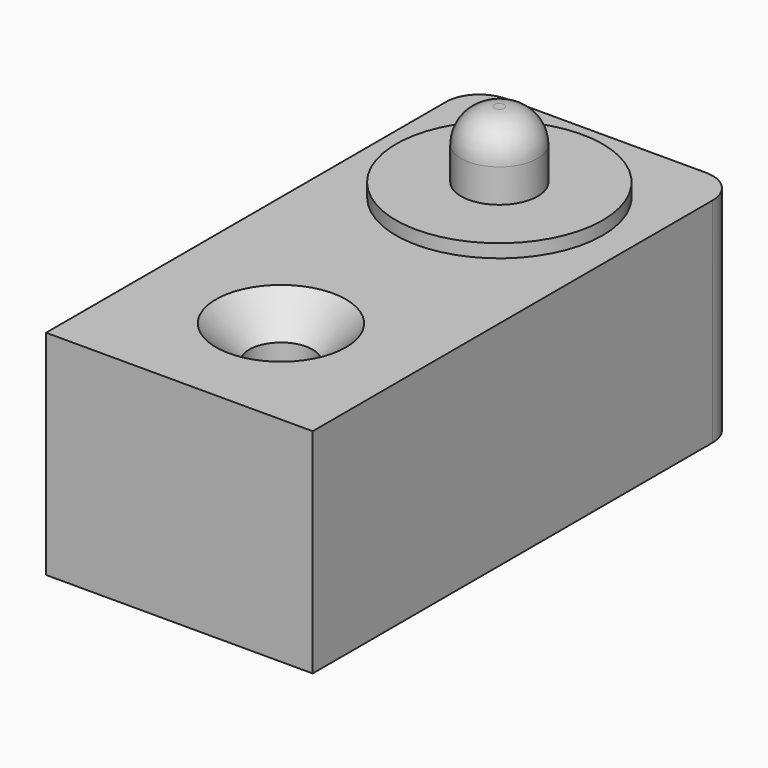
from build123d import *

# Parameters (mm, degrees)
F0_R     = 1.2065
F1_DEPTH = 8.128
F2_SIZE  = 1.27
F3_R     = 3.937
F4_DEPTH = 0.508
F5_R     = 1.4605
F6_DEPTH = 2.54
F7_R     = 1.27


with BuildPart() as f1:
    # F0 (on Top) → F1 (new body)
    with BuildSketch(Plane.XY):
        with BuildLine():
            Line((-5.08, -10.16), (5.08, -10.16))
            Line((5.08, -10.16), (5.08, 8.89))
            ThreePointArc((5.08, 8.89), (4.708026, 9.788026), (3.81, 10.16))
            Line((3.81, 10.16), (-3.81, 10.16))
            ThreePointArc((-3.81, 10.16), (-4.708026, 9.788026), (-5.08, 8.89))
            Line((-5.08, 8.89), (-5.08, -10.16))
        make_face()
        with Locations((0, -5.3213)):
            Circle(F0_R, mode=Mode.SUBTRACT)
    extrude(amount=F1_DEPTH)

    # F2
    f2_edges = [f1.edges().sort_by_distance(p)[0] for p in [
        (-1.2065, -5.3213, 8.128),
    ]]
    chamfer(f2_edges, length=F2_SIZE)

    # F3 (on face) → F4 (join)
    with BuildSketch(Plane.XY.offset(8.128)):
        with Locations((0, 5.08)):
            Circle(F3_R)
    extrude(amount=F4_DEPTH)

    # F5 (on face) → F6 (join)
    with BuildSketch(Plane.XY.offset(8.636)):
        with Locations((0, 5.08)):
            Circle(F5_R)
    extrude(amount=F6_DEPTH)

    # F7
    f7_edges = [f1.edges().sort_by_distance(p)[0] for p in [
        (-1.4605, 5.08, 11.176),
    ]]
    fillet(f7_edges, radius=F7_R)


solid = f1.part
